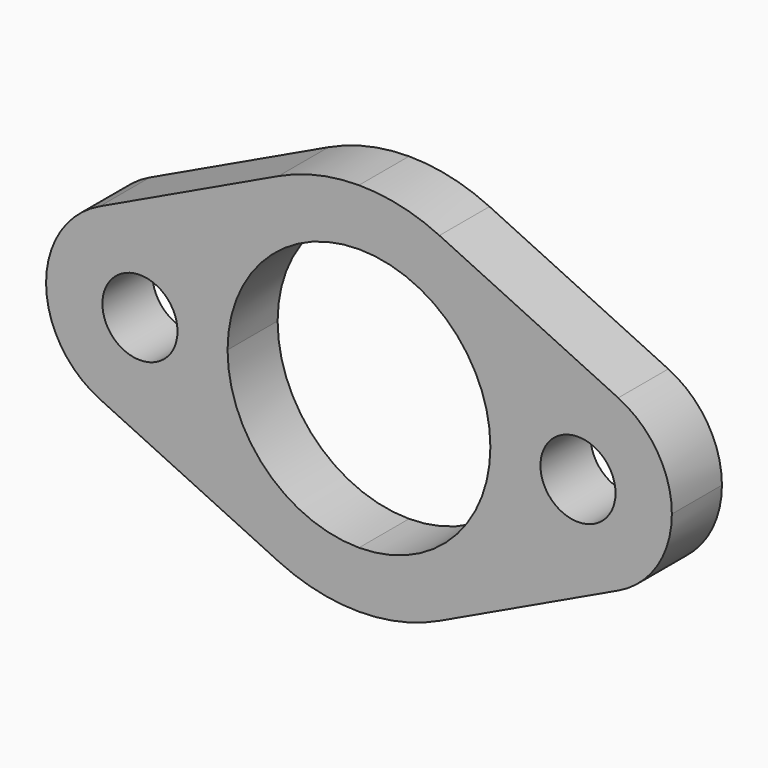
from build123d import *

# Parameters (mm, degrees)
F0_R     = 6
F1_DEPTH = 10


with BuildPart() as f1:
    # F0 (on Front) → F1 (new body)
    with BuildSketch(Plane.XZ):
        with BuildLine():
            Line((41.428571, 13.552619), (12.857143, 27.105237))
            ThreePointArc((12.857143, 27.105237), (6.589495, 29.267363), (0, 30))
            ThreePointArc((0, 30), (-6.589495, 29.267363), (-12.857143, 27.105237))
            Line((-12.857143, 27.105237), (-41.428571, 13.552619))
            ThreePointArc((-41.428571, 13.552619), (-47.677314, 8.017837), (-50, 0))
            ThreePointArc((-50, 0), (-47.677314, -8.017837), (-41.428571, -13.552619))
            Line((-41.428571, -13.552619), (-12.857143, -27.105237))
            ThreePointArc((-12.857143, -27.105237), (-6.589495, -29.267363), (0, -30))
            ThreePointArc((0, -30), (6.589495, -29.267363), (12.857143, -27.105237))
            Line((12.857143, -27.105237), (41.428571, -13.552619))
            ThreePointArc((41.428571, -13.552619), (47.677314, -8.017837), (50, 0))
            ThreePointArc((50, 0), (47.677314, 8.017837), (41.428571, 13.552619))
        make_face()
        with Locations((-35, 0)):
            Circle(F0_R, mode=Mode.SUBTRACT)
        with BuildLine():
            ThreePointArc((0, 21), (14.849242, 14.849242), (21, 0))
            ThreePointArc((21, 0), (14.849242, -14.849242), (0, -21))
            ThreePointArc((0, -21), (-14.849242, -14.849242), (-21, 0))
            ThreePointArc((-21, 0), (-14.849242, 14.849242), (0, 21))
        make_face(mode=Mode.SUBTRACT)
        with Locations((35, 0)):
            Circle(F0_R, mode=Mode.SUBTRACT)
    extrude(amount=F1_DEPTH)


solid = f1.part
